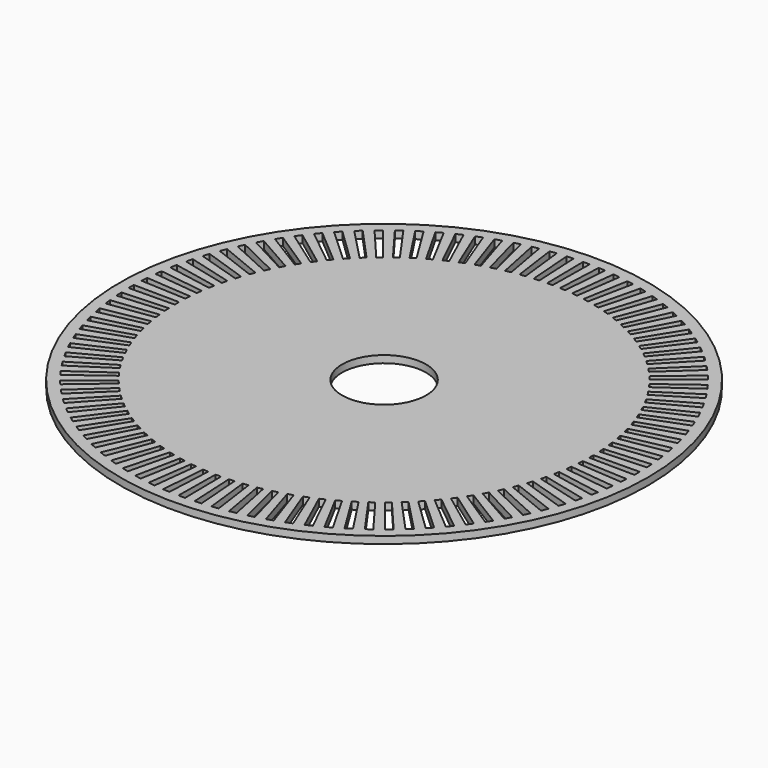
from build123d import *

# Parameters (mm, degrees)
F0_R     = 11
F1_DEPTH = 0.3
F2_D     = 3.5
F4_DEPTH = 25.4


with BuildPart() as f1:
    # F0 (on Top) → F1 (new body)
    with BuildSketch(Plane.XY):
        Circle(F0_R)
    extrude(amount=-F1_DEPTH)

    # F2 (through all)
    with Locations(Plane.XY):
        with Locations((0, 0)):
            Hole(F2_D / 2)

    # F3 (on Top) → F4 (cut)
    with BuildSketch(Plane.XY):
        with BuildLine():
            ThreePointArc((8.63526, 0.113042), (8.636, 0), (8.63526, -0.113042))
            Line((8.63526, -0.113042), (10.540097, -0.137977))
            ThreePointArc((10.540097, -0.137977), (10.541, 0), (10.540097, 0.137977))
            Line((10.540097, 0.137977), (8.63526, 0.113042))
        make_face()
        with BuildLine():
            ThreePointArc((8.611122, 0.655031), (8.618959, 0.542259), (8.625318, 0.429394))
            Line((8.625318, 0.429394), (10.527962, 0.524113))
            ThreePointArc((10.527962, 0.524113), (10.5202, 0.661875), (10.510635, 0.799523))
            Line((10.510635, 0.799523), (8.611122, 0.655031))
        make_face()
        with BuildLine():
            ThreePointArc((8.553001, 1.194435), (8.567903, 1.082378), (8.581336, 0.970135))
            Line((8.581336, 0.970135), (10.474278, 1.184135))
            ThreePointArc((10.474278, 1.184135), (10.457881, 1.321138), (10.439692, 1.457914))
            Line((10.439692, 1.457914), (8.553001, 1.194435))
        make_face()
        with BuildLine():
            ThreePointArc((8.461124, 1.729126), (8.483033, 1.618225), (8.503488, 1.507047))
            Line((8.503488, 1.507047), (10.379257, 1.839484))
            ThreePointArc((10.379257, 1.839484), (10.35429, 1.975186), (10.327548, 2.110551))
            Line((10.327548, 2.110551), (8.461124, 1.729126))
        make_face()
        with BuildLine():
            ThreePointArc((8.335855, 2.256992), (8.364684, 2.147686), (8.39208, 2.038012))
            Line((8.39208, 2.038012), (10.243274, 2.487573))
            ThreePointArc((10.243274, 2.487573), (10.209835, 2.62144), (10.174647, 2.754858))
            Line((10.174647, 2.754858), (8.335855, 2.256992))
        make_face()
        with BuildLine():
            ThreePointArc((8.177689, 2.775951), (8.213324, 2.668671), (8.247552, 2.560933))
            Line((8.247552, 2.560933), (10.066865, 3.125845))
            ThreePointArc((10.066865, 3.125845), (10.025087, 3.257348), (9.98159, 3.388293))
            Line((9.98159, 3.388293), (8.177689, 2.775951))
        make_face()
        with BuildLine():
            ThreePointArc((7.987248, 3.283955), (8.02955, 3.179124), (8.070475, 3.073748))
            Line((8.070475, 3.073748), (9.850727, 3.75178))
            ThreePointArc((9.850727, 3.75178), (9.800774, 3.880401), (9.749141, 4.008357))
            Line((9.749141, 4.008357), (7.987248, 3.283955))
        make_face()
        with BuildLine():
            ThreePointArc((7.765286, 3.778998), (7.814086, 3.67703), (7.861548, 3.574432))
            Line((7.861548, 3.574432), (9.595713, 4.362909))
            ThreePointArc((9.595713, 4.362909), (9.537782, 4.48814), (9.478217, 4.612601))
            Line((9.478217, 4.612601), (7.765286, 3.778998))
        make_face()
        with BuildLine():
            ThreePointArc((7.512678, 4.259128), (7.567784, 4.160425), (7.621594, 4.061009))
            Line((7.621594, 4.061009), (9.302828, 4.95682))
            ThreePointArc((9.302828, 4.95682), (9.237149, 5.078165), (9.169886, 5.198641))
            Line((9.169886, 5.198641), (7.512678, 4.259128))
        make_face()
        with BuildLine():
            ThreePointArc((7.23042, 4.722448), (7.291616, 4.6274), (7.351562, 4.531559))
            Line((7.351562, 4.531559), (8.97323, 5.531168))
            ThreePointArc((8.97323, 5.531168), (8.900061, 5.64815), (8.825366, 5.764165))
            Line((8.825366, 5.764165), (7.23042, 4.722448))
        make_face()
        with BuildLine():
            ThreePointArc((6.919628, 5.167131), (6.986671, 5.076113), (7.052516, 4.984226))
            Line((7.052516, 4.984226), (8.608219, 6.083687))
            ThreePointArc((8.608219, 6.083687), (8.527848, 6.195844), (8.446016, 6.30694))
            Line((8.446016, 6.30694), (6.919628, 5.167131))
        make_face()
        with BuildLine():
            ThreePointArc((6.581527, 5.591422), (6.654152, 5.504794), (6.725638, 5.417222))
            Line((6.725638, 5.417222), (8.209234, 6.612197))
            ThreePointArc((8.209234, 6.612197), (8.12198, 6.719086), (8.033334, 6.824824))
            Line((8.033334, 6.824824), (6.581527, 5.591422))
        make_face()
        with BuildLine():
            ThreePointArc((6.217451, 5.993646), (6.295373, 5.911749), (6.372216, 5.828838))
            Line((6.372216, 5.828838), (7.777852, 7.114612))
            ThreePointArc((7.777852, 7.114612), (7.684058, 7.215811), (7.588948, 7.315774))
            Line((7.588948, 7.315774), (6.217451, 5.993646))
        make_face()
        with BuildLine():
            ThreePointArc((5.828838, 6.372216), (5.911749, 6.295373), (5.993646, 6.217451))
            Line((5.993646, 6.217451), (7.315774, 7.588948))
            ThreePointArc((7.315774, 7.588948), (7.215811, 7.684058), (7.114612, 7.777852))
            Line((7.114612, 7.777852), (5.828838, 6.372216))
        make_face()
        with BuildLine():
            ThreePointArc((5.417222, 6.725638), (5.504794, 6.654152), (5.591422, 6.581527))
            Line((5.591422, 6.581527), (6.824824, 8.033334))
            ThreePointArc((6.824824, 8.033334), (6.719086, 8.12198), (6.612197, 8.209234))
            Line((6.612197, 8.209234), (5.417222, 6.725638))
        make_face()
        with BuildLine():
            ThreePointArc((4.984226, 7.052516), (5.076113, 6.986671), (5.167131, 6.919628))
            Line((5.167131, 6.919628), (6.30694, 8.446016))
            ThreePointArc((6.30694, 8.446016), (6.195844, 8.527848), (6.083687, 8.608219))
            Line((6.083687, 8.608219), (4.984226, 7.052516))
        make_face()
        with BuildLine():
            ThreePointArc((4.531559, 7.351562), (4.6274, 7.291616), (4.722448, 7.23042))
            Line((4.722448, 7.23042), (5.764165, 8.825366))
            ThreePointArc((5.764165, 8.825366), (5.64815, 8.900061), (5.531168, 8.97323))
            Line((5.531168, 8.97323), (4.531559, 7.351562))
        make_face()
        with BuildLine():
            ThreePointArc((4.061009, 7.621594), (4.160425, 7.567784), (4.259128, 7.512678))
            Line((4.259128, 7.512678), (5.198641, 9.169886))
            ThreePointArc((5.198641, 9.169886), (5.078165, 9.237149), (4.95682, 9.302828))
            Line((4.95682, 9.302828), (4.061009, 7.621594))
        make_face()
        with BuildLine():
            ThreePointArc((3.574432, 7.861548), (3.67703, 7.814086), (3.778998, 7.765286))
            Line((3.778998, 7.765286), (4.612601, 9.478217))
            ThreePointArc((4.612601, 9.478217), (4.48814, 9.537782), (4.362909, 9.595713))
            Line((4.362909, 9.595713), (3.574432, 7.861548))
        make_face()
        with BuildLine():
            ThreePointArc((3.073748, 8.070475), (3.179124, 8.02955), (3.283955, 7.987248))
            Line((3.283955, 7.987248), (4.008357, 9.749141))
            ThreePointArc((4.008357, 9.749141), (3.880401, 9.800774), (3.75178, 9.850727))
            Line((3.75178, 9.850727), (3.073748, 8.070475))
        make_face()
        with BuildLine():
            ThreePointArc((2.560933, 8.247552), (2.668671, 8.213324), (2.775951, 8.177689))
            Line((2.775951, 8.177689), (3.388293, 9.98159))
            ThreePointArc((3.388293, 9.98159), (3.257348, 10.025087), (3.125845, 10.066865))
            Line((3.125845, 10.066865), (2.560933, 8.247552))
        make_face()
        with BuildLine():
            ThreePointArc((2.038012, 8.39208), (2.147686, 8.364684), (2.256992, 8.335855))
            Line((2.256992, 8.335855), (2.754858, 10.174647))
            ThreePointArc((2.754858, 10.174647), (2.62144, 10.209835), (2.487573, 10.243274))
            Line((2.487573, 10.243274), (2.038012, 8.39208))
        make_face()
        with BuildLine():
            ThreePointArc((1.507047, 8.503488), (1.618225, 8.483033), (1.729126, 8.461124))
            Line((1.729126, 8.461124), (2.110551, 10.327548))
            ThreePointArc((2.110551, 10.327548), (1.975186, 10.35429), (1.839484, 10.379257))
            Line((1.839484, 10.379257), (1.507047, 8.503488))
        make_face()
        with BuildLine():
            ThreePointArc((0.970135, 8.581336), (1.082378, 8.567903), (1.194435, 8.553001))
            Line((1.194435, 8.553001), (1.457914, 10.439692))
            ThreePointArc((1.457914, 10.439692), (1.321138, 10.457881), (1.184135, 10.474278))
            Line((1.184135, 10.474278), (0.970135, 8.581336))
        make_face()
        with BuildLine():
            ThreePointArc((0.429394, 8.625318), (0.542259, 8.618959), (0.655031, 8.611122))
            Line((0.655031, 8.611122), (0.799523, 10.510635))
            ThreePointArc((0.799523, 10.510635), (0.661875, 10.5202), (0.524113, 10.527962))
            Line((0.524113, 10.527962), (0.429394, 8.625318))
        make_face()
        with BuildLine():
            ThreePointArc((-0.113042, 8.63526), (0, 8.636), (0.113042, 8.63526))
            Line((0.113042, 8.63526), (0.137977, 10.540097))
            ThreePointArc((0.137977, 10.540097), (0, 10.541), (-0.137977, 10.540097))
            Line((-0.137977, 10.540097), (-0.113042, 8.63526))
        make_face()
        with BuildLine():
            ThreePointArc((-0.655031, 8.611122), (-0.542259, 8.618959), (-0.429394, 8.625318))
            Line((-0.429394, 8.625318), (-0.524113, 10.527962))
            ThreePointArc((-0.524113, 10.527962), (-0.661875, 10.5202), (-0.799523, 10.510635))
            Line((-0.799523, 10.510635), (-0.655031, 8.611122))
        make_face()
        with BuildLine():
            ThreePointArc((-1.194435, 8.553001), (-1.082378, 8.567903), (-0.970135, 8.581336))
            Line((-0.970135, 8.581336), (-1.184135, 10.474278))
            ThreePointArc((-1.184135, 10.474278), (-1.321138, 10.457881), (-1.457914, 10.439692))
            Line((-1.457914, 10.439692), (-1.194435, 8.553001))
        make_face()
        with BuildLine():
            ThreePointArc((-1.729126, 8.461124), (-1.618225, 8.483033), (-1.507047, 8.503488))
            Line((-1.507047, 8.503488), (-1.839484, 10.379257))
            ThreePointArc((-1.839484, 10.379257), (-1.975186, 10.35429), (-2.110551, 10.327548))
            Line((-2.110551, 10.327548), (-1.729126, 8.461124))
        make_face()
        with BuildLine():
            ThreePointArc((-2.256992, 8.335855), (-2.147686, 8.364684), (-2.038012, 8.39208))
            Line((-2.038012, 8.39208), (-2.487573, 10.243274))
            ThreePointArc((-2.487573, 10.243274), (-2.62144, 10.209835), (-2.754858, 10.174647))
            Line((-2.754858, 10.174647), (-2.256992, 8.335855))
        make_face()
        with BuildLine():
            ThreePointArc((-2.775951, 8.177689), (-2.668671, 8.213324), (-2.560933, 8.247552))
            Line((-2.560933, 8.247552), (-3.125845, 10.066865))
            ThreePointArc((-3.125845, 10.066865), (-3.257348, 10.025087), (-3.388293, 9.98159))
            Line((-3.388293, 9.98159), (-2.775951, 8.177689))
        make_face()
        with BuildLine():
            ThreePointArc((-3.283955, 7.987248), (-3.179124, 8.02955), (-3.073748, 8.070475))
            Line((-3.073748, 8.070475), (-3.75178, 9.850727))
            ThreePointArc((-3.75178, 9.850727), (-3.880401, 9.800774), (-4.008357, 9.749141))
            Line((-4.008357, 9.749141), (-3.283955, 7.987248))
        make_face()
        with BuildLine():
            ThreePointArc((-3.778998, 7.765286), (-3.67703, 7.814086), (-3.574432, 7.861548))
            Line((-3.574432, 7.861548), (-4.362909, 9.595713))
            ThreePointArc((-4.362909, 9.595713), (-4.48814, 9.537782), (-4.612601, 9.478217))
            Line((-4.612601, 9.478217), (-3.778998, 7.765286))
        make_face()
        with BuildLine():
            ThreePointArc((-4.259128, 7.512678), (-4.160425, 7.567784), (-4.061009, 7.621594))
            Line((-4.061009, 7.621594), (-4.95682, 9.302828))
            ThreePointArc((-4.95682, 9.302828), (-5.078165, 9.237149), (-5.198641, 9.169886))
            Line((-5.198641, 9.169886), (-4.259128, 7.512678))
        make_face()
        with BuildLine():
            ThreePointArc((-4.722448, 7.23042), (-4.6274, 7.291616), (-4.531559, 7.351562))
            Line((-4.531559, 7.351562), (-5.531168, 8.97323))
            ThreePointArc((-5.531168, 8.97323), (-5.64815, 8.900061), (-5.764165, 8.825366))
            Line((-5.764165, 8.825366), (-4.722448, 7.23042))
        make_face()
        with BuildLine():
            ThreePointArc((-5.167131, 6.919628), (-5.076113, 6.986671), (-4.984226, 7.052516))
            Line((-4.984226, 7.052516), (-6.083687, 8.608219))
            ThreePointArc((-6.083687, 8.608219), (-6.195844, 8.527848), (-6.30694, 8.446016))
            Line((-6.30694, 8.446016), (-5.167131, 6.919628))
        make_face()
        with BuildLine():
            ThreePointArc((-5.591422, 6.581527), (-5.504794, 6.654152), (-5.417222, 6.725638))
            Line((-5.417222, 6.725638), (-6.612197, 8.209234))
            ThreePointArc((-6.612197, 8.209234), (-6.719086, 8.12198), (-6.824824, 8.033334))
            Line((-6.824824, 8.033334), (-5.591422, 6.581527))
        make_face()
        with BuildLine():
            ThreePointArc((-5.993646, 6.217451), (-5.911749, 6.295373), (-5.828838, 6.372216))
            Line((-5.828838, 6.372216), (-7.114612, 7.777852))
            ThreePointArc((-7.114612, 7.777852), (-7.215811, 7.684058), (-7.315774, 7.588948))
            Line((-7.315774, 7.588948), (-5.993646, 6.217451))
        make_face()
        with BuildLine():
            ThreePointArc((-6.372216, 5.828838), (-6.295373, 5.911749), (-6.217451, 5.993646))
            Line((-6.217451, 5.993646), (-7.588948, 7.315774))
            ThreePointArc((-7.588948, 7.315774), (-7.684058, 7.215811), (-7.777852, 7.114612))
            Line((-7.777852, 7.114612), (-6.372216, 5.828838))
        make_face()
        with BuildLine():
            ThreePointArc((-6.725638, 5.417222), (-6.654152, 5.504794), (-6.581527, 5.591422))
            Line((-6.581527, 5.591422), (-8.033334, 6.824824))
            ThreePointArc((-8.033334, 6.824824), (-8.12198, 6.719086), (-8.209234, 6.612197))
            Line((-8.209234, 6.612197), (-6.725638, 5.417222))
        make_face()
        with BuildLine():
            ThreePointArc((-7.052516, 4.984226), (-6.986671, 5.076113), (-6.919628, 5.167131))
            Line((-6.919628, 5.167131), (-8.446016, 6.30694))
            ThreePointArc((-8.446016, 6.30694), (-8.527848, 6.195844), (-8.608219, 6.083687))
            Line((-8.608219, 6.083687), (-7.052516, 4.984226))
        make_face()
        with BuildLine():
            ThreePointArc((-7.351562, 4.531559), (-7.291616, 4.6274), (-7.23042, 4.722448))
            Line((-7.23042, 4.722448), (-8.825366, 5.764165))
            ThreePointArc((-8.825366, 5.764165), (-8.900061, 5.64815), (-8.97323, 5.531168))
            Line((-8.97323, 5.531168), (-7.351562, 4.531559))
        make_face()
        with BuildLine():
            ThreePointArc((-7.621594, 4.061009), (-7.567784, 4.160425), (-7.512678, 4.259128))
            Line((-7.512678, 4.259128), (-9.169886, 5.198641))
            ThreePointArc((-9.169886, 5.198641), (-9.237149, 5.078165), (-9.302828, 4.95682))
            Line((-9.302828, 4.95682), (-7.621594, 4.061009))
        make_face()
        with BuildLine():
            ThreePointArc((-7.861548, 3.574432), (-7.814086, 3.67703), (-7.765286, 3.778998))
            Line((-7.765286, 3.778998), (-9.478217, 4.612601))
            ThreePointArc((-9.478217, 4.612601), (-9.537782, 4.48814), (-9.595713, 4.362909))
            Line((-9.595713, 4.362909), (-7.861548, 3.574432))
        make_face()
        with BuildLine():
            ThreePointArc((-8.070475, 3.073748), (-8.02955, 3.179124), (-7.987248, 3.283955))
            Line((-7.987248, 3.283955), (-9.749141, 4.008357))
            ThreePointArc((-9.749141, 4.008357), (-9.800774, 3.880401), (-9.850727, 3.75178))
            Line((-9.850727, 3.75178), (-8.070475, 3.073748))
        make_face()
        with BuildLine():
            ThreePointArc((-8.247552, 2.560933), (-8.213324, 2.668671), (-8.177689, 2.775951))
            Line((-8.177689, 2.775951), (-9.98159, 3.388293))
            ThreePointArc((-9.98159, 3.388293), (-10.025087, 3.257348), (-10.066865, 3.125845))
            Line((-10.066865, 3.125845), (-8.247552, 2.560933))
        make_face()
        with BuildLine():
            ThreePointArc((-8.39208, 2.038012), (-8.364684, 2.147686), (-8.335855, 2.256992))
            Line((-8.335855, 2.256992), (-10.174647, 2.754858))
            ThreePointArc((-10.174647, 2.754858), (-10.209835, 2.62144), (-10.243274, 2.487573))
            Line((-10.243274, 2.487573), (-8.39208, 2.038012))
        make_face()
        with BuildLine():
            ThreePointArc((-8.503488, 1.507047), (-8.483033, 1.618225), (-8.461124, 1.729126))
            Line((-8.461124, 1.729126), (-10.327548, 2.110551))
            ThreePointArc((-10.327548, 2.110551), (-10.35429, 1.975186), (-10.379257, 1.839484))
            Line((-10.379257, 1.839484), (-8.503488, 1.507047))
        make_face()
        with BuildLine():
            ThreePointArc((-8.581336, 0.970135), (-8.567903, 1.082378), (-8.553001, 1.194435))
            Line((-8.553001, 1.194435), (-10.439692, 1.457914))
            ThreePointArc((-10.439692, 1.457914), (-10.457881, 1.321138), (-10.474278, 1.184135))
            Line((-10.474278, 1.184135), (-8.581336, 0.970135))
        make_face()
        with BuildLine():
            ThreePointArc((-8.625318, 0.429394), (-8.618959, 0.542259), (-8.611122, 0.655031))
            Line((-8.611122, 0.655031), (-10.510635, 0.799523))
            ThreePointArc((-10.510635, 0.799523), (-10.5202, 0.661875), (-10.527962, 0.524113))
            Line((-10.527962, 0.524113), (-8.625318, 0.429394))
        make_face()
        with BuildLine():
            ThreePointArc((-8.63526, -0.113042), (-8.636, 0), (-8.63526, 0.113042))
            Line((-8.63526, 0.113042), (-10.540097, 0.137977))
            ThreePointArc((-10.540097, 0.137977), (-10.541, 0), (-10.540097, -0.137977))
            Line((-10.540097, -0.137977), (-8.63526, -0.113042))
        make_face()
        with BuildLine():
            ThreePointArc((-8.611122, -0.655031), (-8.618959, -0.542259), (-8.625318, -0.429394))
            Line((-8.625318, -0.429394), (-10.527962, -0.524113))
            ThreePointArc((-10.527962, -0.524113), (-10.5202, -0.661875), (-10.510635, -0.799523))
            Line((-10.510635, -0.799523), (-8.611122, -0.655031))
        make_face()
        with BuildLine():
            ThreePointArc((-8.553001, -1.194435), (-8.567903, -1.082378), (-8.581336, -0.970135))
            Line((-8.581336, -0.970135), (-10.474278, -1.184135))
            ThreePointArc((-10.474278, -1.184135), (-10.457881, -1.321138), (-10.439692, -1.457914))
            Line((-10.439692, -1.457914), (-8.553001, -1.194435))
        make_face()
        with BuildLine():
            ThreePointArc((-8.461124, -1.729126), (-8.483033, -1.618225), (-8.503488, -1.507047))
            Line((-8.503488, -1.507047), (-10.379257, -1.839484))
            ThreePointArc((-10.379257, -1.839484), (-10.35429, -1.975186), (-10.327548, -2.110551))
            Line((-10.327548, -2.110551), (-8.461124, -1.729126))
        make_face()
        with BuildLine():
            ThreePointArc((-8.335855, -2.256992), (-8.364684, -2.147686), (-8.39208, -2.038012))
            Line((-8.39208, -2.038012), (-10.243274, -2.487573))
            ThreePointArc((-10.243274, -2.487573), (-10.209835, -2.62144), (-10.174647, -2.754858))
            Line((-10.174647, -2.754858), (-8.335855, -2.256992))
        make_face()
        with BuildLine():
            ThreePointArc((-8.177689, -2.775951), (-8.213324, -2.668671), (-8.247552, -2.560933))
            Line((-8.247552, -2.560933), (-10.066865, -3.125845))
            ThreePointArc((-10.066865, -3.125845), (-10.025087, -3.257348), (-9.98159, -3.388293))
            Line((-9.98159, -3.388293), (-8.177689, -2.775951))
        make_face()
        with BuildLine():
            ThreePointArc((-7.987248, -3.283955), (-8.02955, -3.179124), (-8.070475, -3.073748))
            Line((-8.070475, -3.073748), (-9.850727, -3.75178))
            ThreePointArc((-9.850727, -3.75178), (-9.800774, -3.880401), (-9.749141, -4.008357))
            Line((-9.749141, -4.008357), (-7.987248, -3.283955))
        make_face()
        with BuildLine():
            ThreePointArc((-7.765286, -3.778998), (-7.814086, -3.67703), (-7.861548, -3.574432))
            Line((-7.861548, -3.574432), (-9.595713, -4.362909))
            ThreePointArc((-9.595713, -4.362909), (-9.537782, -4.48814), (-9.478217, -4.612601))
            Line((-9.478217, -4.612601), (-7.765286, -3.778998))
        make_face()
        with BuildLine():
            ThreePointArc((-7.512678, -4.259128), (-7.567784, -4.160425), (-7.621594, -4.061009))
            Line((-7.621594, -4.061009), (-9.302828, -4.95682))
            ThreePointArc((-9.302828, -4.95682), (-9.237149, -5.078165), (-9.169886, -5.198641))
            Line((-9.169886, -5.198641), (-7.512678, -4.259128))
        make_face()
        with BuildLine():
            ThreePointArc((-7.23042, -4.722448), (-7.291616, -4.6274), (-7.351562, -4.531559))
            Line((-7.351562, -4.531559), (-8.97323, -5.531168))
            ThreePointArc((-8.97323, -5.531168), (-8.900061, -5.64815), (-8.825366, -5.764165))
            Line((-8.825366, -5.764165), (-7.23042, -4.722448))
        make_face()
        with BuildLine():
            ThreePointArc((-6.919628, -5.167131), (-6.986671, -5.076113), (-7.052516, -4.984226))
            Line((-7.052516, -4.984226), (-8.608219, -6.083687))
            ThreePointArc((-8.608219, -6.083687), (-8.527848, -6.195844), (-8.446016, -6.30694))
            Line((-8.446016, -6.30694), (-6.919628, -5.167131))
        make_face()
        with BuildLine():
            ThreePointArc((-6.581527, -5.591422), (-6.654152, -5.504794), (-6.725638, -5.417222))
            Line((-6.725638, -5.417222), (-8.209234, -6.612197))
            ThreePointArc((-8.209234, -6.612197), (-8.12198, -6.719086), (-8.033334, -6.824824))
            Line((-8.033334, -6.824824), (-6.581527, -5.591422))
        make_face()
        with BuildLine():
            ThreePointArc((-6.217451, -5.993646), (-6.295373, -5.911749), (-6.372216, -5.828838))
            Line((-6.372216, -5.828838), (-7.777852, -7.114612))
            ThreePointArc((-7.777852, -7.114612), (-7.684058, -7.215811), (-7.588948, -7.315774))
            Line((-7.588948, -7.315774), (-6.217451, -5.993646))
        make_face()
        with BuildLine():
            ThreePointArc((-5.828838, -6.372216), (-5.911749, -6.295373), (-5.993646, -6.217451))
            Line((-5.993646, -6.217451), (-7.315774, -7.588948))
            ThreePointArc((-7.315774, -7.588948), (-7.215811, -7.684058), (-7.114612, -7.777852))
            Line((-7.114612, -7.777852), (-5.828838, -6.372216))
        make_face()
        with BuildLine():
            ThreePointArc((-5.417222, -6.725638), (-5.504794, -6.654152), (-5.591422, -6.581527))
            Line((-5.591422, -6.581527), (-6.824824, -8.033334))
            ThreePointArc((-6.824824, -8.033334), (-6.719086, -8.12198), (-6.612197, -8.209234))
            Line((-6.612197, -8.209234), (-5.417222, -6.725638))
        make_face()
        with BuildLine():
            ThreePointArc((-4.984226, -7.052516), (-5.076113, -6.986671), (-5.167131, -6.919628))
            Line((-5.167131, -6.919628), (-6.30694, -8.446016))
            ThreePointArc((-6.30694, -8.446016), (-6.195844, -8.527848), (-6.083687, -8.608219))
            Line((-6.083687, -8.608219), (-4.984226, -7.052516))
        make_face()
        with BuildLine():
            ThreePointArc((-4.531559, -7.351562), (-4.6274, -7.291616), (-4.722448, -7.23042))
            Line((-4.722448, -7.23042), (-5.764165, -8.825366))
            ThreePointArc((-5.764165, -8.825366), (-5.64815, -8.900061), (-5.531168, -8.97323))
            Line((-5.531168, -8.97323), (-4.531559, -7.351562))
        make_face()
        with BuildLine():
            ThreePointArc((-4.061009, -7.621594), (-4.160425, -7.567784), (-4.259128, -7.512678))
            Line((-4.259128, -7.512678), (-5.198641, -9.169886))
            ThreePointArc((-5.198641, -9.169886), (-5.078165, -9.237149), (-4.95682, -9.302828))
            Line((-4.95682, -9.302828), (-4.061009, -7.621594))
        make_face()
        with BuildLine():
            ThreePointArc((-3.574432, -7.861548), (-3.67703, -7.814086), (-3.778998, -7.765286))
            Line((-3.778998, -7.765286), (-4.612601, -9.478217))
            ThreePointArc((-4.612601, -9.478217), (-4.48814, -9.537782), (-4.362909, -9.595713))
            Line((-4.362909, -9.595713), (-3.574432, -7.861548))
        make_face()
        with BuildLine():
            ThreePointArc((-3.073748, -8.070475), (-3.179124, -8.02955), (-3.283955, -7.987248))
            Line((-3.283955, -7.987248), (-4.008357, -9.749141))
            ThreePointArc((-4.008357, -9.749141), (-3.880401, -9.800774), (-3.75178, -9.850727))
            Line((-3.75178, -9.850727), (-3.073748, -8.070475))
        make_face()
        with BuildLine():
            ThreePointArc((-2.560933, -8.247552), (-2.668671, -8.213324), (-2.775951, -8.177689))
            Line((-2.775951, -8.177689), (-3.388293, -9.98159))
            ThreePointArc((-3.388293, -9.98159), (-3.257348, -10.025087), (-3.125845, -10.066865))
            Line((-3.125845, -10.066865), (-2.560933, -8.247552))
        make_face()
        with BuildLine():
            ThreePointArc((-2.038012, -8.39208), (-2.147686, -8.364684), (-2.256992, -8.335855))
            Line((-2.256992, -8.335855), (-2.754858, -10.174647))
            ThreePointArc((-2.754858, -10.174647), (-2.62144, -10.209835), (-2.487573, -10.243274))
            Line((-2.487573, -10.243274), (-2.038012, -8.39208))
        make_face()
        with BuildLine():
            ThreePointArc((-1.507047, -8.503488), (-1.618225, -8.483033), (-1.729126, -8.461124))
            Line((-1.729126, -8.461124), (-2.110551, -10.327548))
            ThreePointArc((-2.110551, -10.327548), (-1.975186, -10.35429), (-1.839484, -10.379257))
            Line((-1.839484, -10.379257), (-1.507047, -8.503488))
        make_face()
        with BuildLine():
            ThreePointArc((-0.970135, -8.581336), (-1.082378, -8.567903), (-1.194435, -8.553001))
            Line((-1.194435, -8.553001), (-1.457914, -10.439692))
            ThreePointArc((-1.457914, -10.439692), (-1.321138, -10.457881), (-1.184135, -10.474278))
            Line((-1.184135, -10.474278), (-0.970135, -8.581336))
        make_face()
        with BuildLine():
            ThreePointArc((-0.429394, -8.625318), (-0.542259, -8.618959), (-0.655031, -8.611122))
            Line((-0.655031, -8.611122), (-0.799523, -10.510635))
            ThreePointArc((-0.799523, -10.510635), (-0.661875, -10.5202), (-0.524113, -10.527962))
            Line((-0.524113, -10.527962), (-0.429394, -8.625318))
        make_face()
        with BuildLine():
            ThreePointArc((0.113042, -8.63526), (0, -8.636), (-0.113042, -8.63526))
            Line((-0.113042, -8.63526), (-0.137977, -10.540097))
            ThreePointArc((-0.137977, -10.540097), (0, -10.541), (0.137977, -10.540097))
            Line((0.137977, -10.540097), (0.113042, -8.63526))
        make_face()
        with BuildLine():
            ThreePointArc((0.655031, -8.611122), (0.542259, -8.618959), (0.429394, -8.625318))
            Line((0.429394, -8.625318), (0.524113, -10.527962))
            ThreePointArc((0.524113, -10.527962), (0.661875, -10.5202), (0.799523, -10.510635))
            Line((0.799523, -10.510635), (0.655031, -8.611122))
        make_face()
        with BuildLine():
            ThreePointArc((1.194435, -8.553001), (1.082378, -8.567903), (0.970135, -8.581336))
            Line((0.970135, -8.581336), (1.184135, -10.474278))
            ThreePointArc((1.184135, -10.474278), (1.321138, -10.457881), (1.457914, -10.439692))
            Line((1.457914, -10.439692), (1.194435, -8.553001))
        make_face()
        with BuildLine():
            ThreePointArc((1.729126, -8.461124), (1.618225, -8.483033), (1.507047, -8.503488))
            Line((1.507047, -8.503488), (1.839484, -10.379257))
            ThreePointArc((1.839484, -10.379257), (1.975186, -10.35429), (2.110551, -10.327548))
            Line((2.110551, -10.327548), (1.729126, -8.461124))
        make_face()
        with BuildLine():
            ThreePointArc((2.256992, -8.335855), (2.147686, -8.364684), (2.038012, -8.39208))
            Line((2.038012, -8.39208), (2.487573, -10.243274))
            ThreePointArc((2.487573, -10.243274), (2.62144, -10.209835), (2.754858, -10.174647))
            Line((2.754858, -10.174647), (2.256992, -8.335855))
        make_face()
        with BuildLine():
            ThreePointArc((2.775951, -8.177689), (2.668671, -8.213324), (2.560933, -8.247552))
            Line((2.560933, -8.247552), (3.125845, -10.066865))
            ThreePointArc((3.125845, -10.066865), (3.257348, -10.025087), (3.388293, -9.98159))
            Line((3.388293, -9.98159), (2.775951, -8.177689))
        make_face()
        with BuildLine():
            ThreePointArc((3.283955, -7.987248), (3.179124, -8.02955), (3.073748, -8.070475))
            Line((3.073748, -8.070475), (3.75178, -9.850727))
            ThreePointArc((3.75178, -9.850727), (3.880401, -9.800774), (4.008357, -9.749141))
            Line((4.008357, -9.749141), (3.283955, -7.987248))
        make_face()
        with BuildLine():
            ThreePointArc((3.778998, -7.765286), (3.67703, -7.814086), (3.574432, -7.861548))
            Line((3.574432, -7.861548), (4.362909, -9.595713))
            ThreePointArc((4.362909, -9.595713), (4.48814, -9.537782), (4.612601, -9.478217))
            Line((4.612601, -9.478217), (3.778998, -7.765286))
        make_face()
        with BuildLine():
            ThreePointArc((4.259128, -7.512678), (4.160425, -7.567784), (4.061009, -7.621594))
            Line((4.061009, -7.621594), (4.95682, -9.302828))
            ThreePointArc((4.95682, -9.302828), (5.078165, -9.237149), (5.198641, -9.169886))
            Line((5.198641, -9.169886), (4.259128, -7.512678))
        make_face()
        with BuildLine():
            ThreePointArc((4.722448, -7.23042), (4.6274, -7.291616), (4.531559, -7.351562))
            Line((4.531559, -7.351562), (5.531168, -8.97323))
            ThreePointArc((5.531168, -8.97323), (5.64815, -8.900061), (5.764165, -8.825366))
            Line((5.764165, -8.825366), (4.722448, -7.23042))
        make_face()
        with BuildLine():
            ThreePointArc((5.167131, -6.919628), (5.076113, -6.986671), (4.984226, -7.052516))
            Line((4.984226, -7.052516), (6.083687, -8.608219))
            ThreePointArc((6.083687, -8.608219), (6.195844, -8.527848), (6.30694, -8.446016))
            Line((6.30694, -8.446016), (5.167131, -6.919628))
        make_face()
        with BuildLine():
            ThreePointArc((5.591422, -6.581527), (5.504794, -6.654152), (5.417222, -6.725638))
            Line((5.417222, -6.725638), (6.612197, -8.209234))
            ThreePointArc((6.612197, -8.209234), (6.719086, -8.12198), (6.824824, -8.033334))
            Line((6.824824, -8.033334), (5.591422, -6.581527))
        make_face()
        with BuildLine():
            ThreePointArc((5.993646, -6.217451), (5.911749, -6.295373), (5.828838, -6.372216))
            Line((5.828838, -6.372216), (7.114612, -7.777852))
            ThreePointArc((7.114612, -7.777852), (7.215811, -7.684058), (7.315774, -7.588948))
            Line((7.315774, -7.588948), (5.993646, -6.217451))
        make_face()
        with BuildLine():
            ThreePointArc((6.372216, -5.828838), (6.295373, -5.911749), (6.217451, -5.993646))
            Line((6.217451, -5.993646), (7.588948, -7.315774))
            ThreePointArc((7.588948, -7.315774), (7.684058, -7.215811), (7.777852, -7.114612))
            Line((7.777852, -7.114612), (6.372216, -5.828838))
        make_face()
        with BuildLine():
            ThreePointArc((6.725638, -5.417222), (6.654152, -5.504794), (6.581527, -5.591422))
            Line((6.581527, -5.591422), (8.033334, -6.824824))
            ThreePointArc((8.033334, -6.824824), (8.12198, -6.719086), (8.209234, -6.612197))
            Line((8.209234, -6.612197), (6.725638, -5.417222))
        make_face()
        with BuildLine():
            ThreePointArc((7.052516, -4.984226), (6.986671, -5.076113), (6.919628, -5.167131))
            Line((6.919628, -5.167131), (8.446016, -6.30694))
            ThreePointArc((8.446016, -6.30694), (8.527848, -6.195844), (8.608219, -6.083687))
            Line((8.608219, -6.083687), (7.052516, -4.984226))
        make_face()
        with BuildLine():
            ThreePointArc((7.351562, -4.531559), (7.291616, -4.6274), (7.23042, -4.722448))
            Line((7.23042, -4.722448), (8.825366, -5.764165))
            ThreePointArc((8.825366, -5.764165), (8.900061, -5.64815), (8.97323, -5.531168))
            Line((8.97323, -5.531168), (7.351562, -4.531559))
        make_face()
        with BuildLine():
            ThreePointArc((7.621594, -4.061009), (7.567784, -4.160425), (7.512678, -4.259128))
            Line((7.512678, -4.259128), (9.169886, -5.198641))
            ThreePointArc((9.169886, -5.198641), (9.237149, -5.078165), (9.302828, -4.95682))
            Line((9.302828, -4.95682), (7.621594, -4.061009))
        make_face()
        with BuildLine():
            ThreePointArc((7.861548, -3.574432), (7.814086, -3.67703), (7.765286, -3.778998))
            Line((7.765286, -3.778998), (9.478217, -4.612601))
            ThreePointArc((9.478217, -4.612601), (9.537782, -4.48814), (9.595713, -4.362909))
            Line((9.595713, -4.362909), (7.861548, -3.574432))
        make_face()
        with BuildLine():
            ThreePointArc((8.070475, -3.073748), (8.02955, -3.179124), (7.987248, -3.283955))
            Line((7.987248, -3.283955), (9.749141, -4.008357))
            ThreePointArc((9.749141, -4.008357), (9.800774, -3.880401), (9.850727, -3.75178))
            Line((9.850727, -3.75178), (8.070475, -3.073748))
        make_face()
        with BuildLine():
            ThreePointArc((8.247552, -2.560933), (8.213324, -2.668671), (8.177689, -2.775951))
            Line((8.177689, -2.775951), (9.98159, -3.388293))
            ThreePointArc((9.98159, -3.388293), (10.025087, -3.257348), (10.066865, -3.125845))
            Line((10.066865, -3.125845), (8.247552, -2.560933))
        make_face()
        with BuildLine():
            ThreePointArc((8.39208, -2.038012), (8.364684, -2.147686), (8.335855, -2.256992))
            Line((8.335855, -2.256992), (10.174647, -2.754858))
            ThreePointArc((10.174647, -2.754858), (10.209835, -2.62144), (10.243274, -2.487573))
            Line((10.243274, -2.487573), (8.39208, -2.038012))
        make_face()
        with BuildLine():
            ThreePointArc((8.503488, -1.507047), (8.483033, -1.618225), (8.461124, -1.729126))
            Line((8.461124, -1.729126), (10.327548, -2.110551))
            ThreePointArc((10.327548, -2.110551), (10.35429, -1.975186), (10.379257, -1.839484))
            Line((10.379257, -1.839484), (8.503488, -1.507047))
        make_face()
        with BuildLine():
            ThreePointArc((8.581336, -0.970135), (8.567903, -1.082378), (8.553001, -1.194435))
            Line((8.553001, -1.194435), (10.439692, -1.457914))
            ThreePointArc((10.439692, -1.457914), (10.457881, -1.321138), (10.474278, -1.184135))
            Line((10.474278, -1.184135), (8.581336, -0.970135))
        make_face()
        with BuildLine():
            ThreePointArc((8.625318, -0.429394), (8.618959, -0.542259), (8.611122, -0.655031))
            Line((8.611122, -0.655031), (10.510635, -0.799523))
            ThreePointArc((10.510635, -0.799523), (10.5202, -0.661875), (10.527962, -0.524113))
            Line((10.527962, -0.524113), (8.625318, -0.429394))
        make_face()
    extrude(amount=-F4_DEPTH, mode=Mode.SUBTRACT)


solid = f1.part
